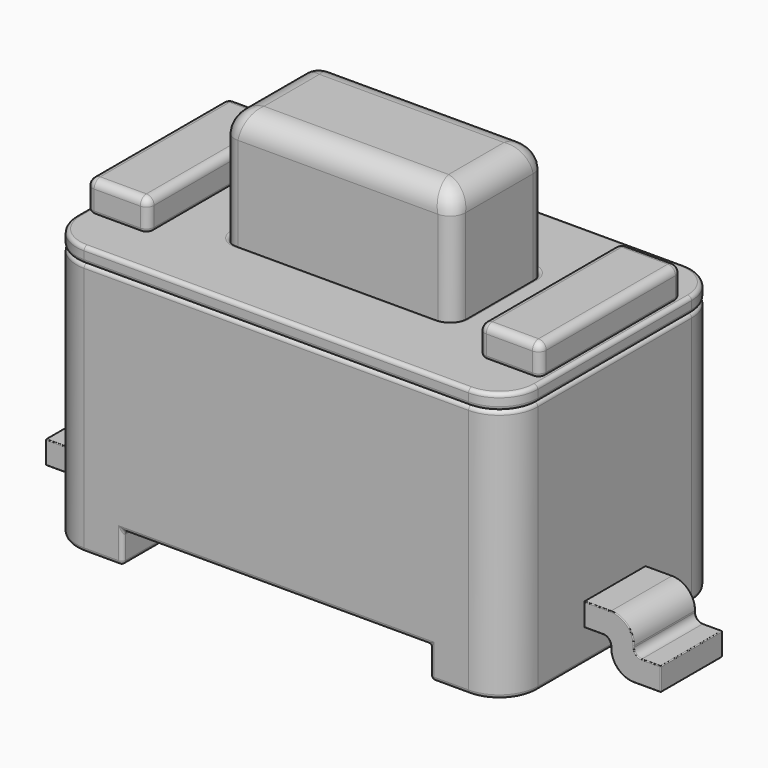
from build123d import *

# Parameters (mm, degrees)
SKETCH_W        = 6
SKETCH_H        = 3.5
PAD_DEPTH       = 3.3
SKETCH002_W     = 3
SKETCH002_H     = 1.5
PAD002_DEPTH    = 1.7
SKETCH003_W     = 0.5
SKETCH003_H     = 2
PAD003_DEPTH    = 0.2
SKETCH005_W     = 4
SKETCH005_H     = 0.4
POCKET001_DEPTH = 3.501
FILLET_R        = 0.2
FILLET002_R     = 0.5
SKETCH007_W     = 0.8
SKETCH007_H     = 2.3
PAD005_DEPTH    = 0.4
FILLET004_R     = 0.1
FILLET005_R     = 0.1
FILLET006_R     = 0.05
FILLET007_R     = 0.1
FILLET008_R     = 0.1
FILLET009_R     = 0.05
FILLET010_R     = 0.05
FILLET011_R     = 0.05
FILLET012_R     = 0.05
FILLET013_R     = 0.05
FILLET014_R     = 0.05
FILLET015_R     = 0.05
FILLET016_R     = 0.05
FILLET017_R     = 0.3
SKETCH001_W     = 6
SKETCH001_H     = 3.5
SKETCH001_W_2   = 3
SKETCH001_H_2   = 1.5
PAD001_DEPTH    = 0.2
SKETCH004_W     = 0.5
SKETCH004_H     = 2
POCKET_DEPTH    = 0.2
FILLET001_R     = 0.2
FILLET003_R     = 0.5
FILLET018_R     = 0.05
FILLET019_R     = 0.05
FILLET020_R     = 0.05
FILLET021_R     = 0.05
PAD004_DEPTH    = 0.5
FILLET022_R     = 0.3
FILLET023_R     = 0.3
FILLET024_R     = 0.1
FILLET025_R     = 0.1
FILLET026_R     = 0.01
FILLET027_R     = 0.01
FILLET028_R     = 0.01
FILLET029_R     = 0.3
FILLET030_R     = 0.1
FILLET031_R     = 0.01
FILLET032_R     = 0.01
FILLET033_R     = 0.01


with BuildPart() as housing:
    # Sketch → Pad (new body)
    with BuildSketch(Plane.XY):
        Rectangle(SKETCH_W, SKETCH_H)
    extrude(amount=PAD_DEPTH)

    # Sketch002 → Pad002 (new body)
    with BuildSketch(Plane.XY.offset(3.3)):
        Rectangle(SKETCH002_W, SKETCH002_H)
    extrude(amount=PAD002_DEPTH)

    # Sketch003 → Pad003 (new body)
    with BuildSketch(Plane.XY.offset(3.3)):
        with Locations((-2.55, 0)):
            Rectangle(SKETCH003_W, SKETCH003_H)
    pad003 = extrude(amount=PAD003_DEPTH)

    # Mirrored: Pad003 across Sketch003 V_Axis
    add(pad003.mirror(Plane(origin=(0, 0, 3.3), x_dir=(0, 0, 1), z_dir=(1, 0, 0))))

    # Sketch005 → Pocket001 (cut, through all)
    with BuildSketch(Plane.XZ.offset(1.75)):
        with Locations((0, 0.2)):
            Rectangle(SKETCH005_W, SKETCH005_H)
    extrude(amount=-POCKET001_DEPTH, mode=Mode.SUBTRACT)

    # Fillet
    fillet_edges = [housing.edges().sort_by_distance(p)[0] for p in [
        (-1.5, -0.75, 4.15),
        (1.5, -0.75, 4.15),
        (1.5, 0.75, 4.15),
        (-1.5, 0.75, 4.15),
    ]]
    fillet(fillet_edges, radius=FILLET_R)

    # Fillet002
    fillet002_edges = [housing.edges().sort_by_distance(p)[0] for p in [
        (-3, -1.75, 1.65),
        (3, -1.75, 1.65),
        (3, 1.75, 1.65),
        (-3, 1.75, 1.65),
    ]]
    fillet(fillet002_edges, radius=FILLET002_R)

    # Sketch007 → Pad005 (new body)
    with BuildSketch(Plane.XY.offset(3.5)):
        with Locations((-2.55, 0)):
            Rectangle(SKETCH007_W, SKETCH007_H)
    pad005 = extrude(amount=PAD005_DEPTH)

    # Mirrored002: Pad005 across Sketch007 V_Axis
    add(pad005.mirror(Plane(origin=(0, 0, 3.5), x_dir=(0, 0, 1), z_dir=(1, 0, 0))))

    # Fillet004
    fillet004_edges = [housing.edges().sort_by_distance(p)[0] for p in [
        (-2.95, -1.15, 3.7),
        (-2.95, 1.15, 3.7),
        (-2.15, 1.15, 3.7),
        (-2.15, -1.15, 3.7),
    ]]
    fillet(fillet004_edges, radius=FILLET004_R)

    # Fillet005
    fillet005_edges = [housing.edges().sort_by_distance(p)[0] for p in [
        (-2.55, -1.15, 3.9),
    ]]
    fillet(fillet005_edges, radius=FILLET005_R)

    # Fillet006
    fillet006_edges = [housing.edges().sort_by_distance(p)[0] for p in [
        (-2.55, -1.15, 3.5),
    ]]
    fillet(fillet006_edges, radius=FILLET006_R)

    # Fillet007
    fillet007_edges = [housing.edges().sort_by_distance(p)[0] for p in [
        (2.15, 1.15, 3.7),
        (2.95, 1.15, 3.7),
        (2.15, -1.15, 3.7),
        (2.95, -1.15, 3.7),
    ]]
    fillet(fillet007_edges, radius=FILLET007_R)

    # Fillet008
    fillet008_edges = [housing.edges().sort_by_distance(p)[0] for p in [
        (2.55, -1.15, 3.9),
    ]]
    fillet(fillet008_edges, radius=FILLET008_R)

    # Fillet009
    fillet009_edges = [housing.edges().sort_by_distance(p)[0] for p in [
        (2.55, -1.15, 3.5),
    ]]
    fillet(fillet009_edges, radius=FILLET009_R)

    # Fillet010
    fillet010_edges = [housing.edges().sort_by_distance(p)[0] for p in [
        (2, 1.75, 0.2),
        (2, -1.75, 0.2),
        (-2, 1.75, 0.2),
        (-2, -1.75, 0.2),
    ]]
    fillet(fillet010_edges, radius=FILLET010_R)

    # Fillet011
    fillet011_edges = [housing.edges().sort_by_distance(p)[0] for p in [
        (0, 1.75, 3.3),
    ]]
    fillet(fillet011_edges, radius=FILLET011_R)

    # Fillet012
    fillet012_edges = [housing.edges().sort_by_distance(p)[0] for p in [
        (2.275, 1.75, 0),
    ]]
    fillet(fillet012_edges, radius=FILLET012_R)

    # Fillet013
    fillet013_edges = [housing.edges().sort_by_distance(p)[0] for p in [
        (-2.275, 1.75, 0),
    ]]
    fillet(fillet013_edges, radius=FILLET013_R)

    # Fillet014
    fillet014_edges = [housing.edges().sort_by_distance(p)[0] for p in [
        (0, -1.75, 0.4),
    ]]
    fillet(fillet014_edges, radius=FILLET014_R)

    # Fillet015
    fillet015_edges = [housing.edges().sort_by_distance(p)[0] for p in [
        (0, 1.75, 0.4),
    ]]
    fillet(fillet015_edges, radius=FILLET015_R)

    # Fillet016
    fillet016_edges = [housing.edges().sort_by_distance(p)[0] for p in [
        (-2, 0, 0.4),
        (2, 0, 0.4),
    ]]
    fillet(fillet016_edges, radius=FILLET016_R)

    # Fillet017
    fillet017_edges = [housing.edges().sort_by_distance(p)[0] for p in [
        (0, 0.75, 5),
    ]]
    fillet(fillet017_edges, radius=FILLET017_R)


with BuildPart() as plate:
    # Sketch001 → Pad001 (new body)
    with BuildSketch(Plane.XY.offset(3.3)):
        Rectangle(SKETCH001_W, SKETCH001_H)
        Rectangle(SKETCH001_W_2, SKETCH001_H_2, mode=Mode.SUBTRACT)
    extrude(amount=PAD001_DEPTH)

    # Sketch004 → Pocket (cut)
    with BuildSketch(Plane.XY.offset(3.5)):
        with Locations((-2.55, 0)):
            Rectangle(SKETCH004_W, SKETCH004_H)
    pocket = extrude(amount=-POCKET_DEPTH, mode=Mode.SUBTRACT)

    # Mirrored001: Pocket across Sketch004 V_Axis
    add(pocket.mirror(Plane(origin=(0, 0, 3.5), x_dir=(0, 0, 1), z_dir=(1, 0, 0))), mode=Mode.SUBTRACT)

    # Fillet001
    fillet001_edges = [plate.edges().sort_by_distance(p)[0] for p in [
        (-1.5, 0.75, 3.4),
        (1.5, 0.75, 3.4),
        (1.5, -0.75, 3.4),
        (-1.5, -0.75, 3.4),
    ]]
    fillet(fillet001_edges, radius=FILLET001_R)

    # Fillet003
    fillet003_edges = [plate.edges().sort_by_distance(p)[0] for p in [
        (-3, 1.75, 3.4),
        (-3, -1.75, 3.4),
        (3, -1.75, 3.4),
        (3, 1.75, 3.4),
    ]]
    fillet(fillet003_edges, radius=FILLET003_R)

    # Fillet018
    fillet018_edges = [plate.edges().sort_by_distance(p)[0] for p in [
        (0, 1.75, 3.5),
    ]]
    fillet(fillet018_edges, radius=FILLET018_R)

    # Fillet019
    fillet019_edges = [plate.edges().sort_by_distance(p)[0] for p in [
        (0, 1.75, 3.3),
    ]]
    fillet(fillet019_edges, radius=FILLET019_R)

    # Fillet020
    fillet020_edges = [plate.edges().sort_by_distance(p)[0] for p in [
        (0, -0.75, 3.5),
    ]]
    fillet(fillet020_edges, radius=FILLET020_R)

    # Fillet021
    fillet021_edges = [plate.edges().sort_by_distance(p)[0] for p in [
        (0, -0.75, 3.3),
    ]]
    fillet(fillet021_edges, radius=FILLET021_R)


with BuildPart() as pins:
    # Sketch006 → Pad004 (new body, symmetric)
    with BuildSketch(Plane.XZ):
        Polygon((-4, 0.3), (-4, 0), (-3.35, 0), (-3.35, 0.45), (-3, 0.45), (-3, 0.75), (-3.65, 0.75), (-3.65, 0.3), align=None)
        Polygon((3, 0.42), (3.35, 0.42), (3.35, 0), (4, 0), (4, 0.3), (3.65, 0.3), (3.65, 0.72), (3, 0.72), align=None)
    extrude(amount=PAD004_DEPTH, both=True)

    # Fillet022
    fillet022_edges = [pins.edges().sort_by_distance(p)[0] for p in [
        (3.65, 0, 0.72),
    ]]
    fillet(fillet022_edges, radius=FILLET022_R)

    # Fillet023
    fillet023_edges = [pins.edges().sort_by_distance(p)[0] for p in [
        (3.35, 0, 0),
    ]]
    fillet(fillet023_edges, radius=FILLET023_R)

    # Fillet024
    fillet024_edges = [pins.edges().sort_by_distance(p)[0] for p in [
        (3.65, 0, 0.3),
    ]]
    fillet(fillet024_edges, radius=FILLET024_R)

    # Fillet025
    fillet025_edges = [pins.edges().sort_by_distance(p)[0] for p in [
        (3.35, 0, 0.42),
    ]]
    fillet(fillet025_edges, radius=FILLET025_R)

    # Fillet026
    fillet026_edges = [pins.edges().sort_by_distance(p)[0] for p in [
        (4, 0, 0.3),
        (4, 0, 0),
        (3, 0, 0.72),
        (3, 0, 0.42),
    ]]
    fillet(fillet026_edges, radius=FILLET026_R)

    # Fillet027
    fillet027_edges = [pins.edges().sort_by_distance(p)[0] for p in [
        (3, 0.5, 0.57),
    ]]
    fillet(fillet027_edges, radius=FILLET027_R)

    # Fillet028
    fillet028_edges = [pins.edges().sort_by_distance(p)[0] for p in [
        (3, -0.5, 0.57),
    ]]
    fillet(fillet028_edges, radius=FILLET028_R)

    # Fillet029
    fillet029_edges = [pins.edges().sort_by_distance(p)[0] for p in [
        (-3.65, 0, 0.75),
        (-3.35, 0, 0),
    ]]
    fillet(fillet029_edges, radius=FILLET029_R)

    # Fillet030
    fillet030_edges = [pins.edges().sort_by_distance(p)[0] for p in [
        (-3.65, 0, 0.3),
        (-3.35, 0, 0.45),
    ]]
    fillet(fillet030_edges, radius=FILLET030_R)

    # Fillet031
    fillet031_edges = [pins.edges().sort_by_distance(p)[0] for p in [
        (-3, 0, 0.45),
        (-3, 0, 0.75),
        (-4, 0, 0.3),
        (-4, 0, 0),
    ]]
    fillet(fillet031_edges, radius=FILLET031_R)

    # Fillet032
    fillet032_edges = [pins.edges().sort_by_distance(p)[0] for p in [
        (-4, 0.5, 0.15),
    ]]
    fillet(fillet032_edges, radius=FILLET032_R)

    # Fillet033
    fillet033_edges = [pins.edges().sort_by_distance(p)[0] for p in [
        (-4, -0.5, 0.15),
    ]]
    fillet(fillet033_edges, radius=FILLET033_R)


solid = Compound([housing.part, plate.part, pins.part])
